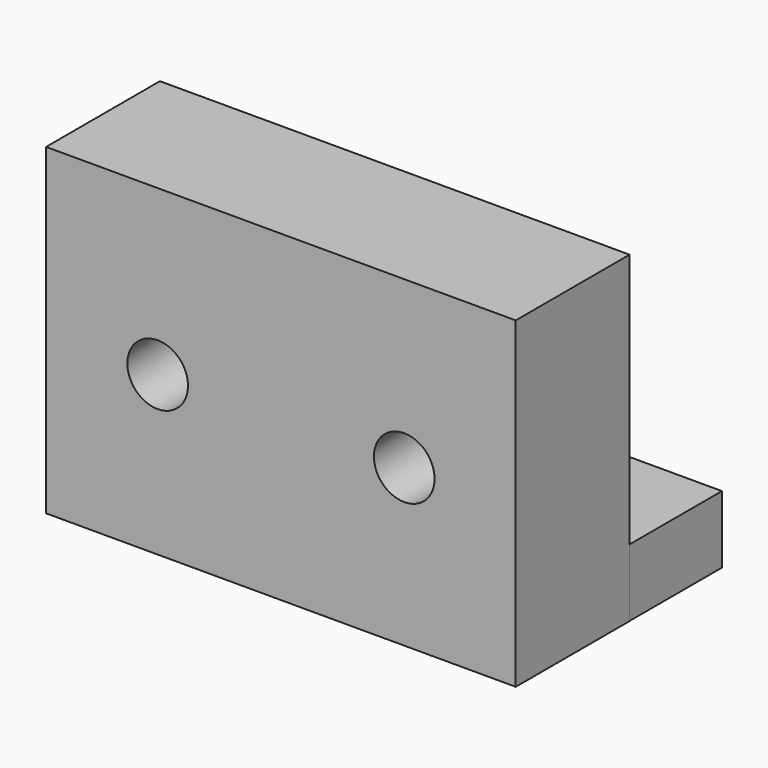
from build123d import *

# Parameters (mm, degrees)
F0_W     = 137.7488821745
F0_H     = 67.785397172
F2_DEPTH = 19.75811
F1_W     = 137.6349329948
F1_H     = 94.5436730981
F3_DEPTH = 41.69879
F5_D     = 17.78


with BuildPart() as f2:
    # F0 (on Top) → F2 (new body)
    with BuildSketch(Plane.XY):
        Rectangle(F0_W, F0_H)
    extrude(amount=F2_DEPTH)

    # F1 (on Front) → F3 (join)
    with BuildSketch(Plane.XZ):
        with Locations((0.1108199358, 47.271836549)):
            Rectangle(F1_W, F1_H)
    extrude(amount=F3_DEPTH)

    # F5 (through all)
    with Locations(Plane(origin=(0, 0, 0), x_dir=(1, 0, 0), z_dir=(0, 1, 0))):
        with Locations((-36.0051579773, -46.4185513556), (36.2534709275, -45.9219291806)):
            Hole(F5_D / 2)


solid = f2.part
